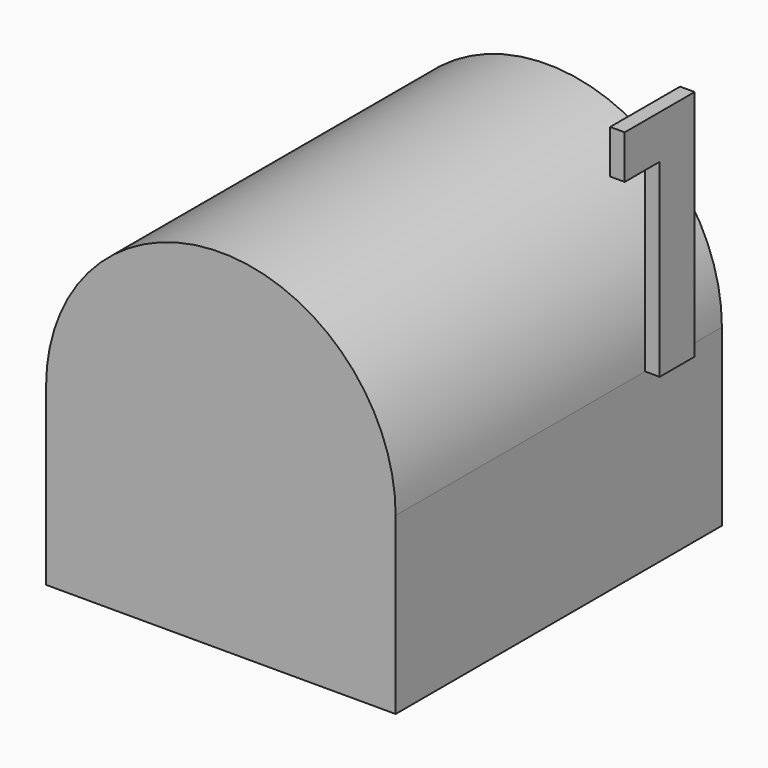
from build123d import *

# Parameters (mm, degrees)
F0_W     = 177.8
F0_H     = 76.2
F3_DEPTH = 177.8
F4_W     = 19.05
F4_H     = 19.05
F4_H_2   = 82.55
F5_DEPTH = 6.35


with BuildPart() as f1:
    # F0 (on Right) → F1 (revolve)
    with BuildSketch(Plane.YZ):
        with Locations((11.1915917635, 38.1)):
            Rectangle(F0_W, F0_H)
    revolve(axis=Axis((0, 11.1915917635, 0), (0, 1, 0)))

    # F2 (on face) → F3 (join)
    with BuildSketch(Plane.XZ.offset(77.7084082365)):
        with BuildLine():
            Line((0, -76.2), (0, 0))
            Line((0, 0), (-76.2, 0))
            ThreePointArc((-76.2, 0), (-53.8815367264, -53.8815367264), (0, -76.2))
        make_face()
        with BuildLine():
            Line((76.2, 0), (0, 0))
            Line((0, 0), (0, -76.2))
            ThreePointArc((0, -76.2), (53.8815367264, -53.8815367264), (76.2, 0))
        make_face()
        with BuildLine():
            Line((76.2, -76.2), (76.2, 0))
            ThreePointArc((76.2, 0), (53.8815367264, -53.8815367264), (0, -76.2))
            Line((0, -76.2), (76.2, -76.2))
        make_face()
        with BuildLine():
            Line((-76.2, -76.2), (0, -76.2))
            ThreePointArc((0, -76.2), (-53.8815367264, -53.8815367264), (-76.2, 0))
            Line((-76.2, 0), (-76.2, -76.2))
        make_face()
    extrude(amount=-F3_DEPTH)


with BuildPart() as f5:
    # F4 (on face) → F5 (new body)
    with BuildSketch(Plane.YZ.offset(76.2)):
        with Locations((48.7139810562, 92.075)):
            Rectangle(F4_W, F4_H)
        with Locations((67.7639810562, 92.075)):
            Rectangle(F4_W, F4_H)
        with Locations((67.7639810562, 41.275)):
            Rectangle(F4_W, F4_H_2)
    extrude(amount=F5_DEPTH)


solid = Compound([f1.part, f5.part])
